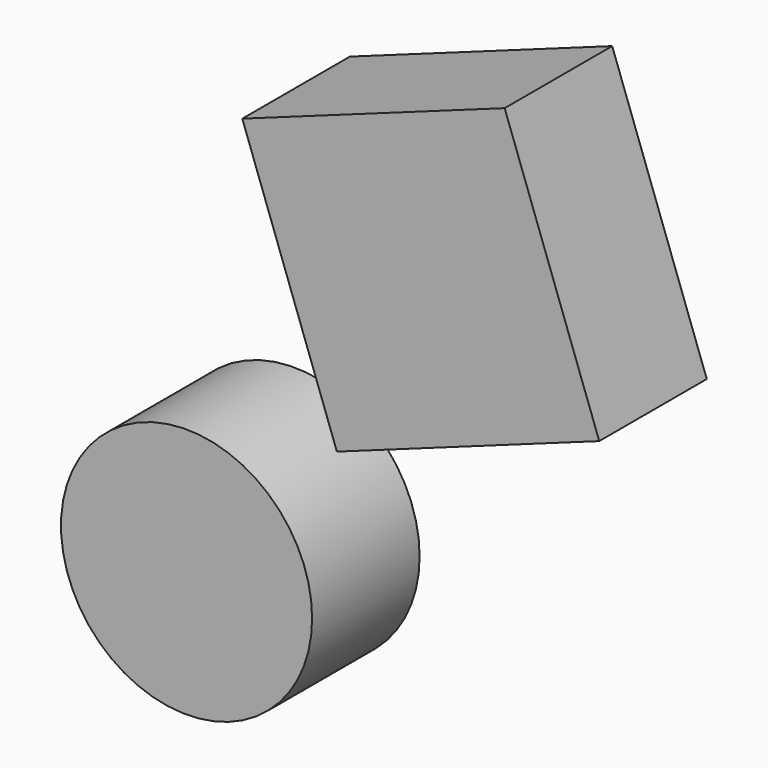
from build123d import *

# Parameters (mm, degrees)
F0_R     = 23.727089
F1_DEPTH = 25.4


with BuildPart() as f1:
    # F0 (on Front) → F1 (new body)
    with BuildSketch(Plane.XZ):
        with Locations((-7.341343, -38.196266)):
            Circle(F0_R)
        Polygon((21.066468, -8.937288), (70.647132, 8.937288), (52.772556, 58.517952), (3.191892, 40.643375), align=None)
    extrude(amount=F1_DEPTH)


solid = f1.part
